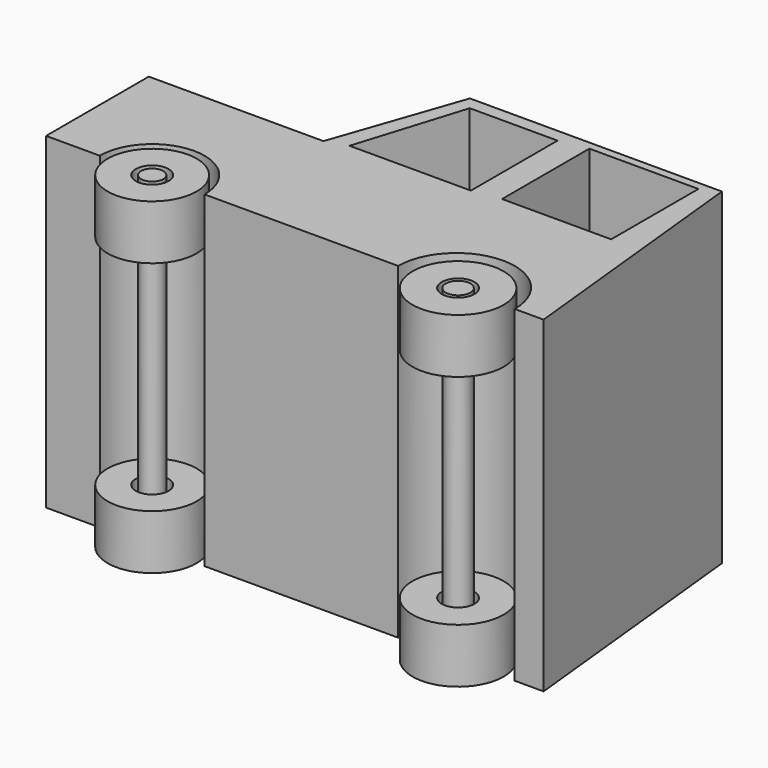
from build123d import *

# Parameters (mm, degrees)
F1_DEPTH  = 38.1
F3_DEPTH  = 101.6
F5_DEPTH  = 101.6
F6_R      = 10.35962
F6_R_2    = 10.604866
F7_DEPTH  = 38.1
F8_R      = 3.81
F9_R      = 3.81
F10_DEPTH = 101.6
F11_R     = 3.81
F12_DEPTH = 76.2
F16_DEPTH = 76.2
F17_W     = 25.4
F17_H     = 25.4
F18_DEPTH = 76.2
F19_R     = 10.554888
F20_DEPTH = 25.4
F21_R     = 11.44653
F22_DEPTH = 25.4
F13_R     = 2.570806
F14_R     = 2.865914
F23_DEPTH = 76.2


with BuildPart() as f1:
    # F0 (on Top) → F1 (new body, symmetric)
    with BuildSketch(Plane.XY):
        Polygon((-50.954007, 29.886598), (-50.954007, 0), (64.872064, 0), (58.671523, 59.649188), (0, 59.649188), (-10.278472, 29.886598), align=None)
    extrude(amount=F1_DEPTH, both=True)

    # F2 (on face) → F3 (cut)
    with BuildSketch(Plane(origin=(0, 0, -38.1), x_dir=(1, 0, 0), z_dir=(0, 0, -1))):
        with BuildLine():
            Line((-38.455339, 0), (-14.057192, 0))
            ThreePointArc((-14.057192, 0), (-26.256265, 12.199074), (-38.455339, 0))
        make_face()
        with BuildLine():
            ThreePointArc((-38.455339, 0), (-26.256265, -12.199074), (-14.057192, 0))
            Line((-14.057192, 0), (-38.455339, 0))
        make_face()
    extrude(amount=-F3_DEPTH, mode=Mode.SUBTRACT)

    # F4 (on face) → F5 (cut)
    with BuildSketch(Plane(origin=(0, 0, -38.1), x_dir=(1, 0, 0), z_dir=(0, 0, -1))):
        with BuildLine():
            ThreePointArc((31.017694, 0), (44.58791, -13.570216), (58.158127, 0))
            Line((58.158127, 0), (31.017694, 0))
        make_face()
        with BuildLine():
            Line((31.017694, 0), (58.158127, 0))
            ThreePointArc((58.158127, 0), (44.58791, 13.570216), (31.017694, 0))
        make_face()
    extrude(amount=-F5_DEPTH, mode=Mode.SUBTRACT)

    # F15 (on face) → F16 (cut)
    with BuildSketch(Plane.XY.offset(38.1)):
        Polygon((2.386932, 56.618057), (-5.442208, 31.412043), (0, 31.412043), (22.819083, 31.412043), (22.819083, 56.618057), align=None)
    extrude(amount=-F16_DEPTH, mode=Mode.SUBTRACT)

    # F17 (on face) → F18 (cut)
    with BuildSketch(Plane.XY.offset(38.1)):
        with Locations((42.011538, 45.066816)):
            Rectangle(F17_W, F17_H)
    extrude(amount=-F18_DEPTH, mode=Mode.SUBTRACT)


with BuildPart() as f7:
    # F6 (on Top) → F7 (new body, symmetric)
    with BuildSketch(Plane.XY):
        with Locations((-26.256265, 0)):
            Circle(F6_R)
        with Locations((44.969819, 0)):
            Circle(F6_R_2)
    extrude(amount=F7_DEPTH, both=True)

    # F8 (on face) + F9 (on face) → F10 (cut)
    with BuildSketch(Plane.XY.offset(38.1)):
        with Locations((-26.256265, 0)):
            Circle(F8_R)
    with BuildSketch(Plane(origin=(0, 0, -38.1), x_dir=(1, 0, 0), z_dir=(0, 0, -1))):
        with Locations((44.969819, 0)):
            Circle(F9_R)
    extrude(amount=-F10_DEPTH, mode=Mode.SUBTRACT)

    # F11 (on face) → F12 (cut)
    with BuildSketch(Plane.XY.offset(38.1)):
        with Locations((44.969819, 0)):
            Circle(F11_R)
    extrude(amount=-F12_DEPTH, mode=Mode.SUBTRACT)

    # F19 (on Top) → F20 (cut, symmetric)
    with BuildSketch(Plane.XY):
        with Locations((-26.256265, 0)):
            Circle(F19_R)
    extrude(amount=F20_DEPTH, both=True, mode=Mode.SUBTRACT)

    # F21 (on Top) → F22 (cut, symmetric)
    with BuildSketch(Plane.XY):
        with Locations((44.969823, 0)):
            Circle(F21_R)
    extrude(amount=F22_DEPTH, both=True, mode=Mode.SUBTRACT)


with BuildPart() as f23:
    # F13 (on face) + F14 (on face) → F23 (new body)
    with BuildSketch(Plane.XY.offset(38.1)):
        with Locations((-26.256265, 0)):
            Circle(F13_R)
    with BuildSketch(Plane.XY.offset(38.1)):
        with Locations((44.969819, 0)):
            Circle(F14_R)
    extrude(amount=-F23_DEPTH)


solid = Compound([f1.part, f7.part, f23.part])
